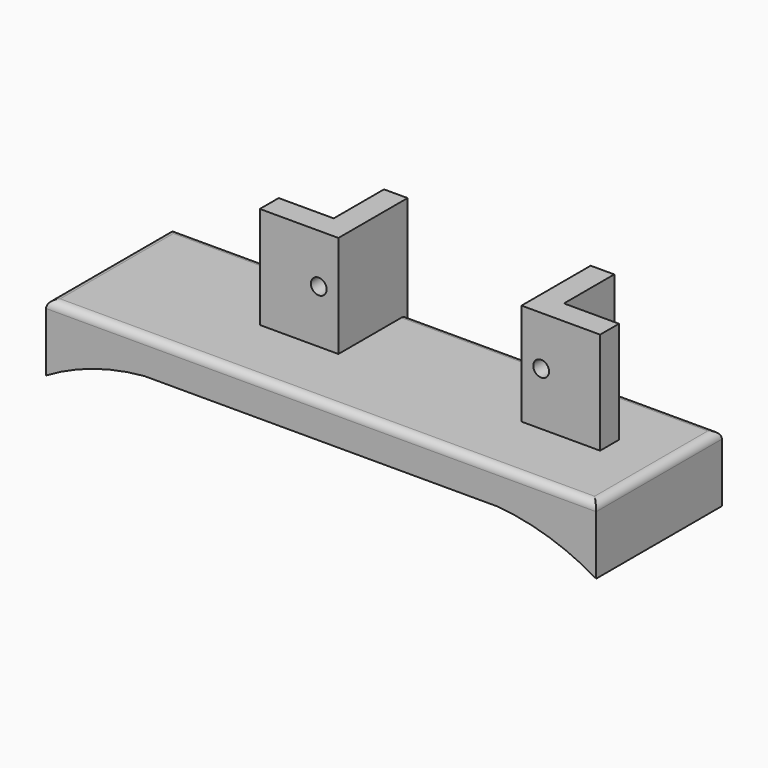
from build123d import *

# Parameters (mm, degrees)
SKETCH_W        = 70
SKETCH_H        = 20
PAD_DEPTH       = 8.5
POCKET_DEPTH    = 20
PAD001_DEPTH    = 13
SKETCH003_R     = 1
POCKET001_DEPTH = 8
FILLET_R        = 1


with BuildPart() as part:
    # Sketch → Pad (new body)
    with BuildSketch(Plane.XY):
        with Locations((0, 10)):
            Rectangle(SKETCH_W, SKETCH_H)
    extrude(amount=PAD_DEPTH)

    # Sketch001 (on Face3 of Pad) → Pocket (cut)
    with BuildSketch(Plane.XZ):
        with BuildLine():
            Line((-22.5, 4), (22.5, 4))
            ThreePointArc((35, 0), (28.975662, 2.705192), (22.5, 4))
            Line((-35, 0), (35, 0))
            ThreePointArc((-22.5, 4), (-28.975662, 2.705192), (-35, 0))
        make_face()
    extrude(amount=-POCKET_DEPTH, mode=Mode.SUBTRACT)

    # Sketch002 (on Face6 of Pocket) → Pad001 (join)
    with BuildSketch(Plane.XY.offset(8.5)):
        Polygon((-5, 9), (-15, 9), (-15, 12), (-8, 12), (-8, 20), (-5, 20), align=None)
        Polygon((18.3, 9), (28.3, 9), (28.3, 12), (21.3, 12), (21.3, 20), (18.3, 20), align=None)
    extrude(amount=PAD001_DEPTH)

    # Sketch003 (on Face17 of Pad001) → Pocket001 (cut)
    with BuildSketch(Plane.XZ.offset(-9)):
        with Locations((-7.5, 15.25)):
            Circle(SKETCH003_R)
        with Locations((20.8, 15.25)):
            Circle(SKETCH003_R)
    extrude(amount=-POCKET001_DEPTH, mode=Mode.SUBTRACT)

    # Fillet
    fillet_edges = [part.edges().sort_by_distance(p)[0] for p in [
        (-21.5, 20, 8.5),
        (-35, 10, 8.5),
        (0, 0, 8.5),
        (35, 10, 8.5),
        (6.65, 20, 8.5),
        (28.15, 20, 8.5),
    ]]
    fillet(fillet_edges, radius=FILLET_R)


solid = part.part
